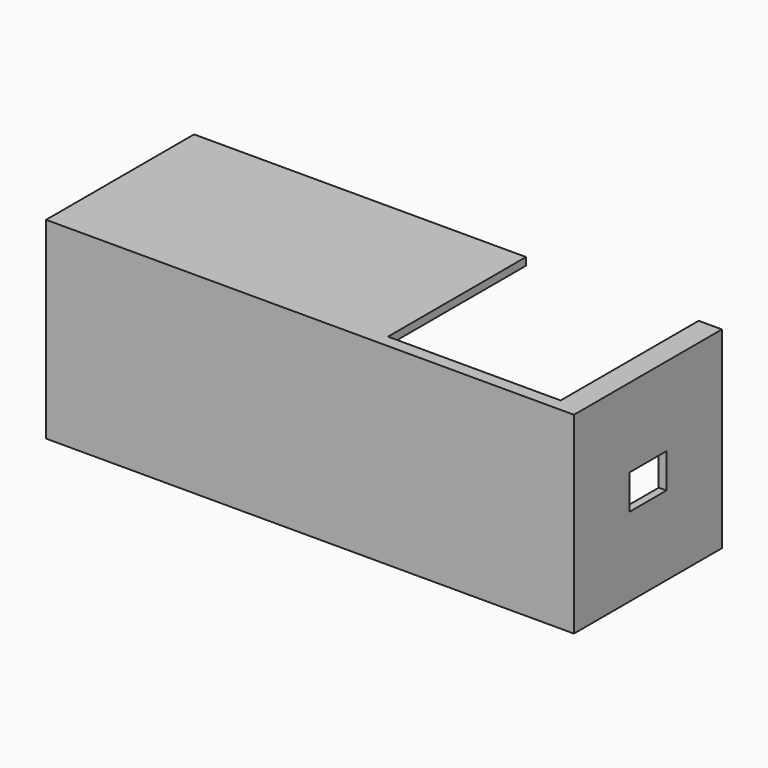
from build123d import *

# Parameters (mm, degrees)
F0_W      = 68.5
F0_H      = 25
F1_DEPTH  = 1
F2_W      = 68.5
F2_H      = 1
F3_DEPTH  = 23
F4_W      = 1
F4_H      = 24
F5_DEPTH  = 23
F6_W      = 67.5
F6_H      = 1
F7_DEPTH  = 23
F8_W      = 6
F8_H      = 4.5
F9_DEPTH  = 1
F10_W     = 22.405751
F10_H     = 22.382014
F11_DEPTH = 25


with BuildPart() as f1:
    # F0 (on Front) → F1 (new body)
    with BuildSketch(Plane.XZ):
        Rectangle(F0_W, F0_H)
    extrude(amount=F1_DEPTH)

    # F2 (on face) → F3 (join)
    with BuildSketch(Plane(origin=(0, 0, 0), x_dir=(-1, 0, 0), z_dir=(0, 1, 0))):
        with Locations((0, -12)):
            Rectangle(F2_W, F2_H)
    extrude(amount=F3_DEPTH)

    # F4 (on face) → F5 (join)
    with BuildSketch(Plane(origin=(0, 0, 0), x_dir=(-1, 0, 0), z_dir=(0, 1, 0))):
        with Locations((-33.75, 0.5)):
            Rectangle(F4_W, F4_H)
    extrude(amount=F5_DEPTH)

    # F6 (on face) → F7 (join)
    with BuildSketch(Plane(origin=(0, 0, 0), x_dir=(-1, 0, 0), z_dir=(0, 1, 0))):
        with Locations((0.5, 12)):
            Rectangle(F6_W, F6_H)
    extrude(amount=F7_DEPTH)

    # F8 (on face) → F9 (cut, through all)
    with BuildSketch(Plane.YZ.offset(34.25)):
        with Locations((11, 0)):
            Rectangle(F8_W, F8_H)
    extrude(amount=-F9_DEPTH, mode=Mode.SUBTRACT)

    # F10 (on face) → F11 (cut)
    with BuildSketch(Plane(origin=(0, 0, -12.5), x_dir=(1, 0, 0), z_dir=(0, 0, -1))):
        with Locations((20.026559, -11.808993)):
            Rectangle(F10_W, F10_H)
    extrude(amount=-F11_DEPTH, mode=Mode.SUBTRACT)


solid = f1.part
